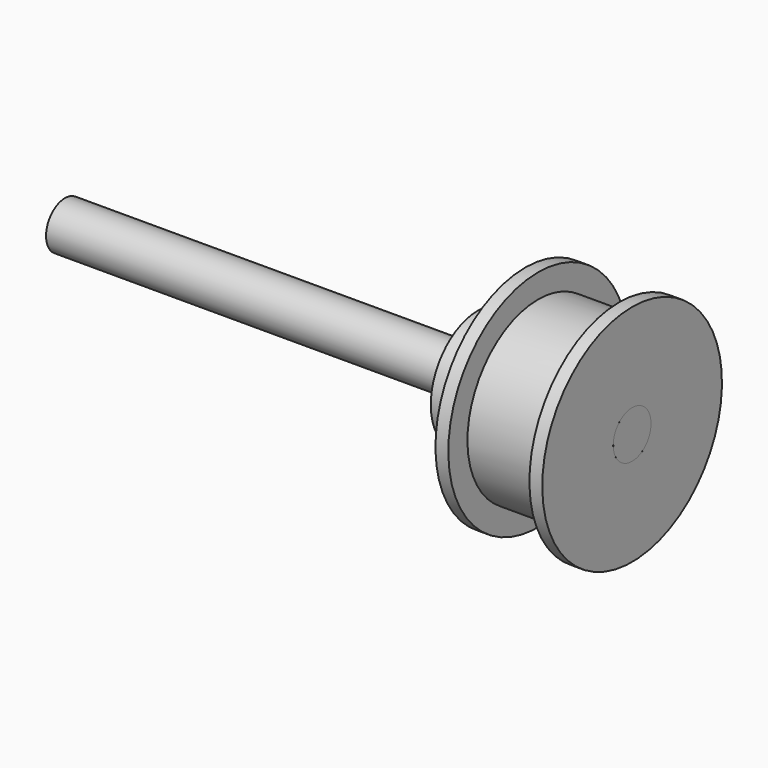
from build123d import *

# Parameters (mm, degrees)
F2_R     = 3.175
F3_DEPTH = 76.2


with BuildPart() as f1:
    # F0 (on Front) → F1 (revolve)
    with BuildSketch(Plane.XZ):
        Polygon((0, 7.9375), (0, 3.175), (20.701, 3.175), (20.701, 15.0876), (18.9738, 15.0876), (18.9738, 11.8745), (8.0772, 11.8745), (8.0772, 15.0876), (6.35, 15.0876), (6.35, 7.9375), align=None)
    revolve(axis=Axis((26.067868, 0, 0), (1, 0, 0)))


with BuildPart() as f3:
    # F2 (on face) → F3 (new body)
    with BuildSketch(Plane.YZ.offset(20.701)):
        Circle(F2_R)
    extrude(amount=-F3_DEPTH)


solid = Compound([f1.part, f3.part])
